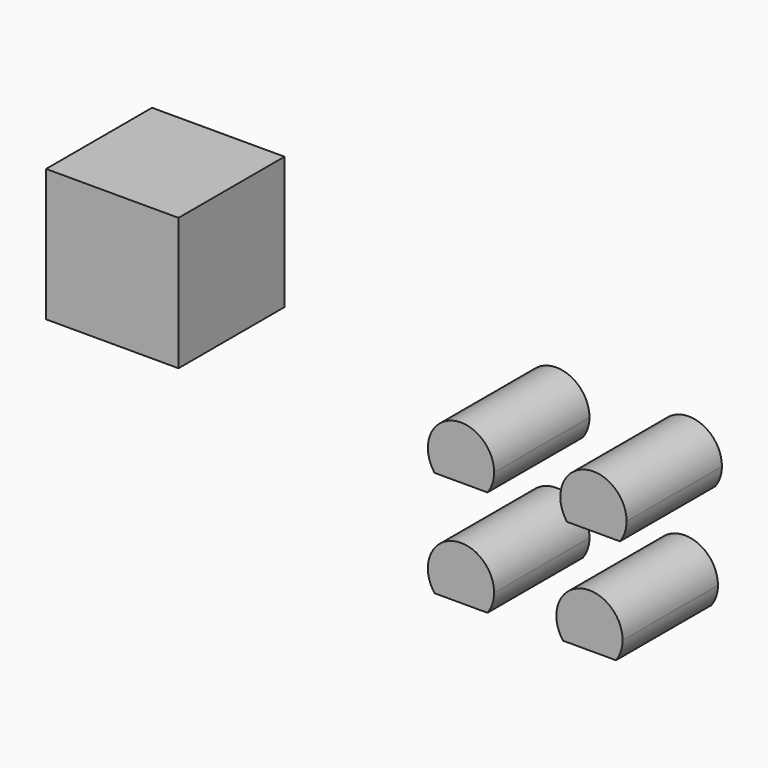
from build123d import *

# Parameters (mm, degrees)
F1_DEPTH      = 8
F1_DEPTH_BACK = 10
F5_W          = 20
F5_H          = 20
F6_DEPTH      = 20


with BuildPart() as f1:
    # F0 (on Front) → F1 (new body, two sides)
    with BuildSketch(Plane.XZ) as f1_sk:
        with BuildLine():
            ThreePointArc((4, -3), (4.743416, -1.581139), (5, 0))
            ThreePointArc((5, 0), (-1.581139, 4.743416), (-4, -3))
            Line((-4, -3), (4, -3))
        make_face()
    extrude(amount=F1_DEPTH)
    extrude(f1_sk.sketch, amount=-F1_DEPTH_BACK)


with BuildPart() as f2_1:
    # F2: copy of F1
    add(f1.part.moved(Location((0, 0, 16))))


with BuildPart() as f3_1:
    # F3: copy of F1
    add(f1.part.moved(Location((19.4, 0, 0))))


with BuildPart() as f4_1:
    # F4: copy of F2_1
    add(f2_1.part.moved(Location((20, 0, 0))))


with BuildPart() as f6:
    # F5 (on Front) → F6 (new body)
    with BuildSketch(Plane.XZ):
        with Locations((-43.051124, 32.330855)):
            Rectangle(F5_W, F5_H)
    extrude(amount=F6_DEPTH)


solid = Compound([f1.part, f2_1.part, f3_1.part, f4_1.part, f6.part])
